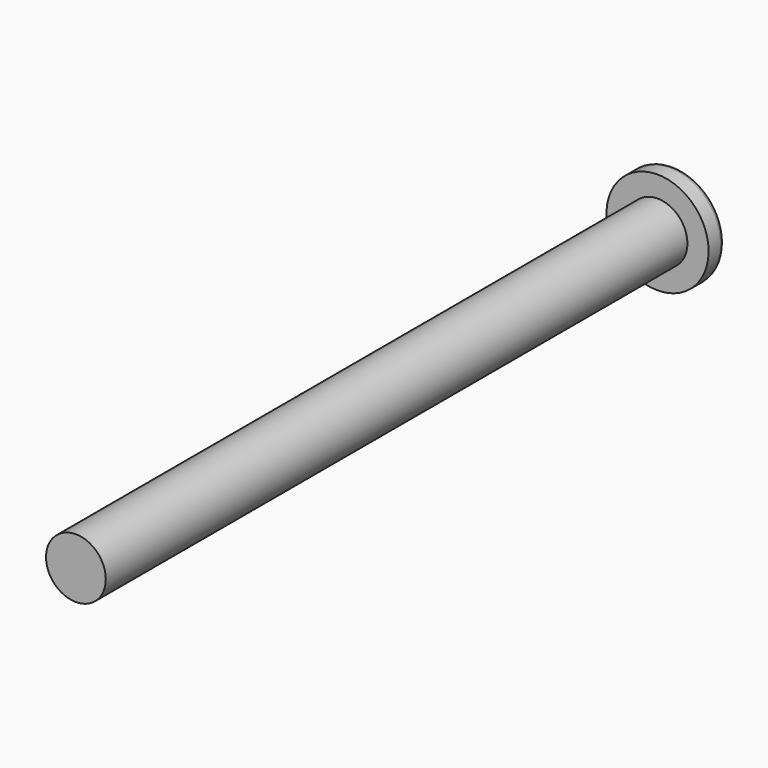
from build123d import *

# Parameters (mm, degrees)
F0_R     = 20.5
F0_R_2   = 12
F1_DEPTH = 8
F2_DEPTH = 300
F3_R     = 2


with BuildPart() as f1:
    # F0 (on Front) → F1 (new body)
    with BuildSketch(Plane.XZ):
        Circle(F0_R)
        Circle(F0_R_2, mode=Mode.SUBTRACT)
        Circle(F0_R_2)
    extrude(amount=F1_DEPTH)

    # F0 (on Front) → F2 (join)
    with BuildSketch(Plane.XZ):
        Circle(F0_R_2)
    extrude(amount=F2_DEPTH)

    # F3
    f3_edges = [f1.edges().sort_by_distance(p)[0] for p in [
        (-20.5, 0, 0),
    ]]
    fillet(f3_edges, radius=F3_R)


solid = f1.part
